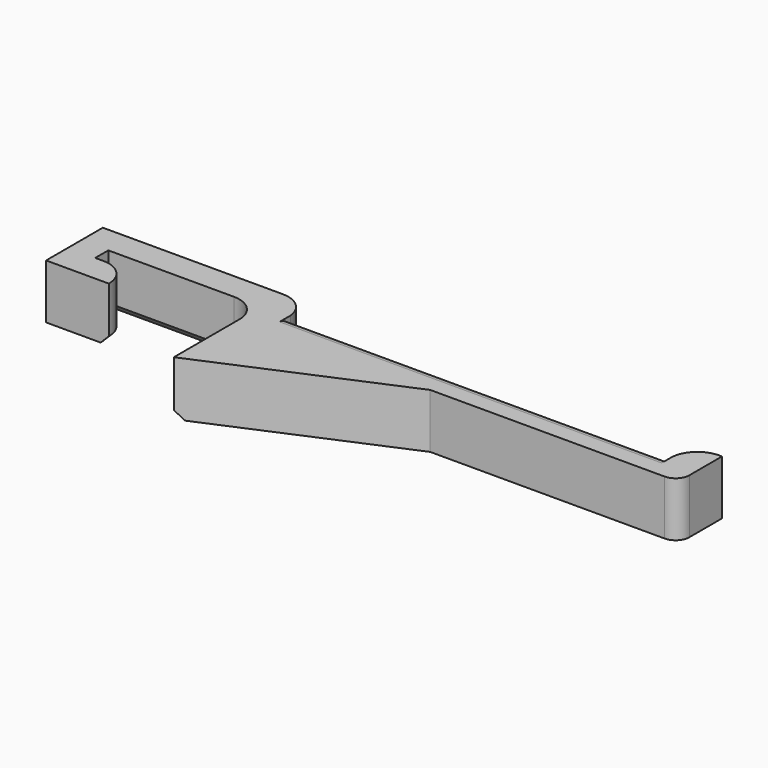
from build123d import *

# Parameters (mm, degrees)
PAD_DEPTH    = 10
FILLET_R     = 2
CHAMFER_SIZE = 1.5


with BuildPart() as part:
    # Sketch → Pad (new body)
    with BuildSketch(Plane.XY):
        with BuildLine():
            Line((4.974937, 0), (74.974937, 0))
            Line((74.974937, 0), (74.974937, 0.5))
            ThreePointArc((80.449874, 4.974937), (76.785616, 3.871365), (74.974937, 0.5))
            Line((80.449874, 4.974937), (80.449874, -2.5))
            ThreePointArc((77.949874, -5), (79.717641, -4.267767), (80.449874, -2.5))
            Line((77.949874, -5), (34.974937, -5))
            Line((0, -20), (34.974937, -5))
            Line((0, -20), (0, -5))
            ThreePointArc((0, -5), (-1.464466, -1.464466), (-5, 0))
            Line((-28, 0), (-5, 0))
            Line((-28, -3), (-28, 0))
            Line((-26.5, -3), (-28, -3))
            ThreePointArc((-21.5, -8), (-22.964466, -4.464466), (-26.5, -3))
            Line((-33, -8), (-21.5, -8))
            Line((-33, 5), (-33, -8))
            Line((-2.3e-05, 5), (-33, 5))
            ThreePointArc((4.974937, 0.5), (3.354094, 3.708107), (-2.3e-05, 5))
            Line((4.974937, 0), (4.974937, 0.5))
        make_face()
    extrude(amount=PAD_DEPTH)

    # Fillet
    fillet_edges = [part.edges().sort_by_distance(p)[0] for p in [
        (39.974937, 0, 0),
        (39.974937, 0, 10),
    ]]
    fillet(fillet_edges, radius=FILLET_R)

    # Chamfer
    chamfer_edges = [part.edges().sort_by_distance(p)[0] for p in [
        (-27.25, -3, 0),
        (-22.964466, -4.464466, 0),
        (-28, -1.5, 0),
        (-16.5, 0, 0),
        (-1.464466, -1.464466, 0),
        (0, -12.5, 0),
    ]]
    chamfer(chamfer_edges, length=CHAMFER_SIZE)


solid = part.part
